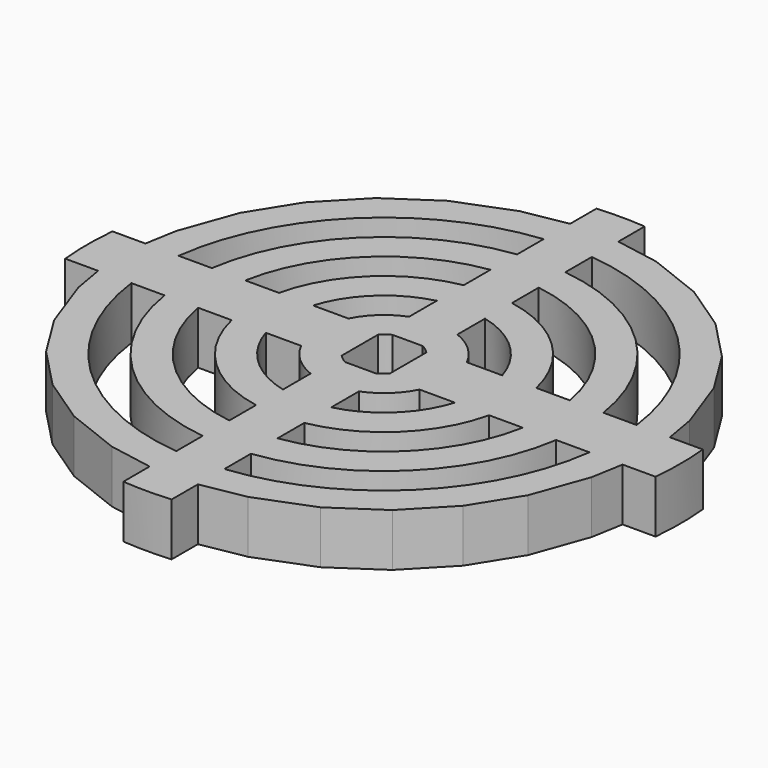
from build123d import *

# Parameters (mm, degrees)
F0_R     = 45
F1_DEPTH = 8
F3_DEPTH = 25
F5_DEPTH = 25


with BuildPart() as f1:
    # F0 (on Top) → F1 (new body)
    with BuildSketch(Plane.XY):
        Circle(F0_R)
    extrude(amount=F1_DEPTH)

    # F2 (on face) → F3 (cut)
    with BuildSketch(Plane.XY.offset(8)):
        with BuildLine():
            ThreePointArc((-44.7762963998, 4.4814373498), (-31.5268148945, 32.1101221207), (-3.659898693, 44.8509213011))
            Line((-3.659898693, 44.8509213011), (-3.659898693, 46.727180481))
            Line((-3.659898693, 46.727180481), (-14.4028495997, 46.727180481))
            Line((-14.4028495997, 46.727180481), (-30.4222777486, 39.8657522048))
            Line((-30.4222777486, 39.8657522048), (-45.7375533879, 26.1307712644))
            Line((-45.7375533879, 26.1307712644), (-50.4905698847, 4.4814373498))
            Line((-50.4905698847, 4.4814373498), (-44.7762963998, 4.4814373498))
        make_face()
        with BuildLine():
            Line((-3.659898693, 39.8657522048), (-3.659898693, 44.8509213011))
            ThreePointArc((-3.659898693, 44.8509213011), (-31.5268148945, 32.1101221207), (-44.7762963998, 4.4814373498))
            Line((-44.7762963998, 4.4814373498), (-39.7817769409, 4.4814373498))
            Line((-39.7817769409, 4.4814373498), (-38.9415013432, 9.2861472328))
            Line((-38.9415013432, 9.2861472328), (-35.9457781326, 17.6231124305))
            Line((-35.9457781326, 17.6231124305), (-31.6359626456, 24.5324056053))
            Line((-31.6359626456, 24.5324056053), (-25.7671181964, 30.6386794289))
            Line((-25.7671181964, 30.6386794289), (-18.6895557962, 35.4030162759))
            Line((-18.6895557962, 35.4030162759), (-10.3150569916, 38.6816837348))
            Line((-10.3150569916, 38.6816837348), (-3.659898693, 39.8657522048))
        make_face()
        with BuildLine():
            ThreePointArc((44.7762963998, 4.4814373498), (31.5268148945, 32.1101221207), (3.659898693, 44.8509213011))
            Line((3.659898693, 44.8509213011), (3.659898693, 39.8657522048))
            Line((3.659898693, 39.8657522048), (10.3150569916, 38.6816837348))
            Line((10.3150569916, 38.6816837348), (18.6895557962, 35.4030162759))
            Line((18.6895557962, 35.4030162759), (25.7671181964, 30.6386794289))
            Line((25.7671181964, 30.6386794289), (31.6359626456, 24.5324056053))
            Line((31.6359626456, 24.5324056053), (35.9457781326, 17.6231124305))
            Line((35.9457781326, 17.6231124305), (38.9415013432, 9.2861472328))
            Line((38.9415013432, 9.2861472328), (39.7817769409, 4.4814373498))
            Line((39.7817769409, 4.4814373498), (44.7762963998, 4.4814373498))
        make_face()
        with BuildLine():
            Line((3.659898693, 46.727180481), (3.659898693, 44.8509213011))
            ThreePointArc((3.659898693, 44.8509213011), (31.5268148945, 32.1101221207), (44.7762963998, 4.4814373498))
            Line((44.7762963998, 4.4814373498), (50.4905698847, 4.4814373498))
            Line((50.4905698847, 4.4814373498), (45.7375533879, 26.1307712644))
            Line((45.7375533879, 26.1307712644), (30.4222777486, 39.8657522048))
            Line((30.4222777486, 39.8657522048), (14.4028495997, 46.727180481))
            Line((14.4028495997, 46.727180481), (3.659898693, 46.727180481))
        make_face()
        with BuildLine():
            ThreePointArc((3.659898693, -44.8509213011), (31.5268148945, -32.1101221207), (44.7762963998, -4.4814373498))
            Line((44.7762963998, -4.4814373498), (39.7817769409, -4.4814373498))
            Line((39.7817769409, -4.4814373498), (38.9415013432, -9.2861472328))
            Line((38.9415013432, -9.2861472328), (35.9457781326, -17.6231124305))
            Line((35.9457781326, -17.6231124305), (31.6359626456, -24.5324056053))
            Line((31.6359626456, -24.5324056053), (25.7671181964, -30.6386794289))
            Line((25.7671181964, -30.6386794289), (18.6895557962, -35.4030162759))
            Line((18.6895557962, -35.4030162759), (10.3150569916, -38.6816837348))
            Line((10.3150569916, -38.6816837348), (3.659898693, -39.8657522048))
            Line((3.659898693, -39.8657522048), (3.659898693, -44.8509213011))
        make_face()
        with BuildLine():
            Line((50.4905698847, -4.4814373498), (44.7762963998, -4.4814373498))
            ThreePointArc((44.7762963998, -4.4814373498), (31.5268148945, -32.1101221207), (3.659898693, -44.8509213011))
            Line((3.659898693, -44.8509213011), (3.659898693, -46.727180481))
            Line((3.659898693, -46.727180481), (14.4028495997, -46.727180481))
            Line((14.4028495997, -46.727180481), (30.4222777486, -39.8657522048))
            Line((30.4222777486, -39.8657522048), (45.7375533879, -26.1307712644))
            Line((45.7375533879, -26.1307712644), (50.4905698847, -4.4814373498))
        make_face()
        with BuildLine():
            Line((-39.7817769409, -4.4814373498), (-44.7762963998, -4.4814373498))
            ThreePointArc((-44.7762963998, -4.4814373498), (-31.5268148945, -32.1101221207), (-3.659898693, -44.8509213011))
            Line((-3.659898693, -44.8509213011), (-3.659898693, -39.8657522048))
            Line((-3.659898693, -39.8657522048), (-10.3150569916, -38.6816837348))
            Line((-10.3150569916, -38.6816837348), (-18.6895557962, -35.4030162759))
            Line((-18.6895557962, -35.4030162759), (-25.7671181964, -30.6386794289))
            Line((-25.7671181964, -30.6386794289), (-31.6359626456, -24.5324056053))
            Line((-31.6359626456, -24.5324056053), (-35.9457781326, -17.6231124305))
            Line((-35.9457781326, -17.6231124305), (-38.9415013432, -9.2861472328))
            Line((-38.9415013432, -9.2861472328), (-39.7817769409, -4.4814373498))
        make_face()
        with BuildLine():
            ThreePointArc((-3.659898693, -44.8509213011), (-31.5268148945, -32.1101221207), (-44.7762963998, -4.4814373498))
            Line((-44.7762963998, -4.4814373498), (-50.4905698847, -4.4814373498))
            Line((-50.4905698847, -4.4814373498), (-45.7375533879, -26.1307712644))
            Line((-45.7375533879, -26.1307712644), (-30.4222777486, -39.8657522048))
            Line((-30.4222777486, -39.8657522048), (-14.4028495997, -46.727180481))
            Line((-14.4028495997, -46.727180481), (-3.659898693, -46.727180481))
            Line((-3.659898693, -46.727180481), (-3.659898693, -44.8509213011))
        make_face()
    extrude(amount=-F3_DEPTH, mode=Mode.SUBTRACT)

    # F4 (on face) → F5 (cut)
    with BuildSketch(Plane.XY.offset(8)):
        with BuildLine():
            ThreePointArc((-34.7455865377, -4.4814373498), (-24.4781891298, -25.0630668813), (-3.659898693, -34.841702113))
            Line((-3.659898693, -34.841702113), (-3.659898693, -29.8095658037))
            ThreePointArc((-3.659898693, -29.8095658037), (-20.9416331367, -21.5279602707), (-29.6971680658, -4.4814373498))
            Line((-29.6971680658, -4.4814373498), (-34.7455865377, -4.4814373498))
        make_face()
        with BuildLine():
            ThreePointArc((-24.6290031955, -4.4814373498), (-17.4044615557, -17.993215307), (-3.659898693, -24.7644144022))
            Line((-3.659898693, -24.7644144022), (-3.659898693, -19.6962490835))
            ThreePointArc((-3.659898693, -19.6962490835), (-13.8659969572, -14.4592950999), (-19.5257216431, -4.4814373498))
            Line((-19.5257216431, -4.4814373498), (-24.6290031955, -4.4814373498))
        make_face()
        with BuildLine():
            ThreePointArc((-14.3499063746, -4.4814373498), (-10.3241960537, -10.9276744793), (-3.659898693, -14.5810917025))
            Line((-3.659898693, -14.5810917025), (-3.659898693, -9.342068428))
            ThreePointArc((-3.659898693, -9.342068428), (-6.769710949, -7.4054111718), (-8.9769605233, -4.4814373498))
            Line((-8.9769605233, -4.4814373498), (-14.3499063746, -4.4814373498))
        make_face()
        with BuildLine():
            Line((3.659898693, -3.4554666532), (3.659898693, 3.4554666532))
            ThreePointArc((3.659898693, 3.4554666532), (3.0196847302, 4.0269855183), (2.2916866091, 4.4814373498))
            Line((2.2916866091, 4.4814373498), (-2.2916866091, 4.4814373498))
            ThreePointArc((-2.2916866091, 4.4814373498), (-3.0196847302, 4.0269855183), (-3.659898693, 3.4554666532))
            Line((-3.659898693, 3.4554666532), (-3.659898693, -3.4554666532))
            ThreePointArc((-3.659898693, -3.4554666532), (-3.0196847302, -4.0269855183), (-2.2916866091, -4.4814373498))
            Line((-2.2916866091, -4.4814373498), (2.2916866091, -4.4814373498))
            ThreePointArc((2.2916866091, -4.4814373498), (3.0196847302, -4.0269855183), (3.659898693, -3.4554666532))
        make_face()
        with BuildLine():
            ThreePointArc((3.659898693, -14.5810917025), (10.3241960537, -10.9276744793), (14.3499063746, -4.4814373498))
            Line((14.3499063746, -4.4814373498), (8.9769605233, -4.4814373498))
            ThreePointArc((8.9769605233, -4.4814373498), (6.769710949, -7.4054111718), (3.659898693, -9.342068428))
            Line((3.659898693, -9.342068428), (3.659898693, -14.5810917025))
        make_face()
        with BuildLine():
            ThreePointArc((3.659898693, -24.7644144022), (17.4044615557, -17.993215307), (24.6290031955, -4.4814373498))
            Line((24.6290031955, -4.4814373498), (19.5257216431, -4.4814373498))
            ThreePointArc((19.5257216431, -4.4814373498), (13.8659969572, -14.4592950999), (3.659898693, -19.6962490835))
            Line((3.659898693, -19.6962490835), (3.659898693, -24.7644144022))
        make_face()
        with BuildLine():
            ThreePointArc((3.659898693, -34.841702113), (24.4781891298, -25.0630668813), (34.7455865377, -4.4814373498))
            Line((34.7455865377, -4.4814373498), (29.6971680658, -4.4814373498))
            ThreePointArc((29.6971680658, -4.4814373498), (20.9416331367, -21.5279602707), (3.659898693, -29.8095658037))
            Line((3.659898693, -29.8095658037), (3.659898693, -34.841702113))
        make_face()
        with BuildLine():
            Line((29.6971680658, 4.4814373498), (34.7455865377, 4.4814373498))
            ThreePointArc((34.7455865377, 4.4814373498), (24.4781891298, 25.0630668813), (3.659898693, 34.841702113))
            Line((3.659898693, 34.841702113), (3.659898693, 29.8095658037))
            ThreePointArc((3.659898693, 29.8095658037), (20.9416331367, 21.5279602707), (29.6971680658, 4.4814373498))
        make_face()
        with BuildLine():
            Line((19.5257216431, 4.4814373498), (24.6290031955, 4.4814373498))
            ThreePointArc((24.6290031955, 4.4814373498), (17.4044615557, 17.993215307), (3.659898693, 24.7644144022))
            Line((3.659898693, 24.7644144022), (3.659898693, 19.6962490835))
            ThreePointArc((3.659898693, 19.6962490835), (13.8659969572, 14.4592950999), (19.5257216431, 4.4814373498))
        make_face()
        with BuildLine():
            Line((8.9769605233, 4.4814373498), (14.3499063746, 4.4814373498))
            ThreePointArc((14.3499063746, 4.4814373498), (10.3241960537, 10.9276744793), (3.659898693, 14.5810917025))
            Line((3.659898693, 14.5810917025), (3.659898693, 9.342068428))
            ThreePointArc((3.659898693, 9.342068428), (6.769710949, 7.4054111718), (8.9769605233, 4.4814373498))
        make_face()
        with BuildLine():
            Line((-3.659898693, 9.342068428), (-3.659898693, 14.5810917025))
            ThreePointArc((-3.659898693, 14.5810917025), (-10.3241960537, 10.9276744793), (-14.3499063746, 4.4814373498))
            Line((-14.3499063746, 4.4814373498), (-8.9769605233, 4.4814373498))
            ThreePointArc((-8.9769605233, 4.4814373498), (-6.769710949, 7.4054111718), (-3.659898693, 9.342068428))
        make_face()
        with BuildLine():
            Line((-3.659898693, 19.6962490835), (-3.659898693, 24.7644144022))
            ThreePointArc((-3.659898693, 24.7644144022), (-17.4044615557, 17.993215307), (-24.6290031955, 4.4814373498))
            Line((-24.6290031955, 4.4814373498), (-19.5257216431, 4.4814373498))
            ThreePointArc((-19.5257216431, 4.4814373498), (-13.8659969572, 14.4592950999), (-3.659898693, 19.6962490835))
        make_face()
        with BuildLine():
            Line((-3.659898693, 29.8095658037), (-3.659898693, 34.841702113))
            ThreePointArc((-3.659898693, 34.841702113), (-24.4781891298, 25.0630668813), (-34.7455865377, 4.4814373498))
            Line((-34.7455865377, 4.4814373498), (-29.6971680658, 4.4814373498))
            ThreePointArc((-29.6971680658, 4.4814373498), (-20.9416331367, 21.5279602707), (-3.659898693, 29.8095658037))
        make_face()
    extrude(amount=-F5_DEPTH, mode=Mode.SUBTRACT)


solid = f1.part
